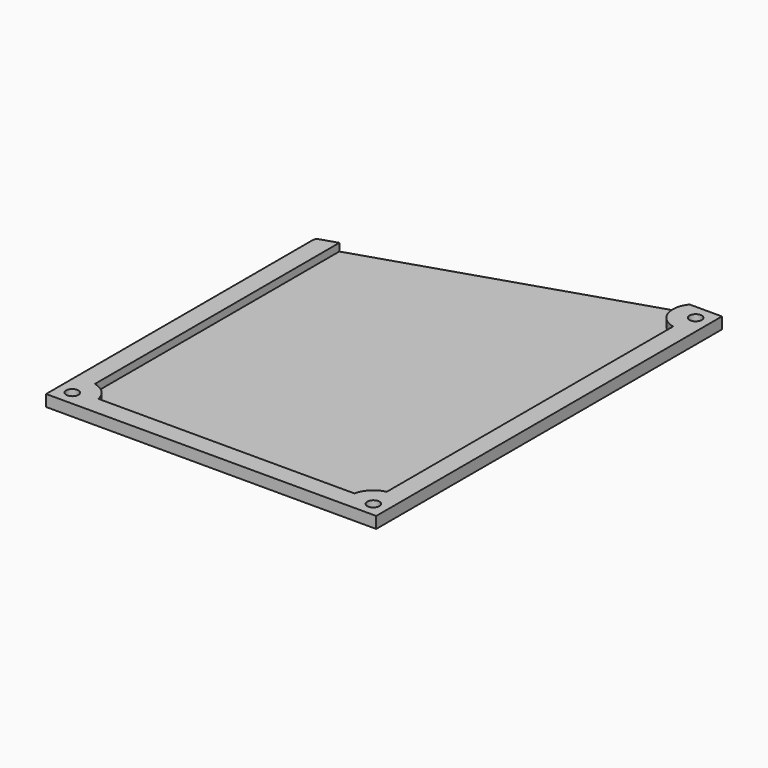
from build123d import *

# Parameters (mm, degrees)
SKETCH_W           = 86.36
SKETCH_H           = 113.03
PAD_DEPTH          = 10
SKETCH001_R        = 1.6
POCKET_DEPTH       = 1
POCKET001_DEPTH    = 9
POCKET002_DEPTH    = 10.001
FILLET_R           = 1
FILLET_FACE20_R    = 1.6
POCKET003_DEPTH    = 9.001
POCKET003_FACE20_R = 1.6
POCKET004_DEPTH    = 9.001
POCKET004_FACE21_R = 1.6
POCKET005_DEPTH    = 9.001
POCKET005_FACE11_R = 1.6
POCKET006_DEPTH    = 7


with BuildPart() as part:
    # Sketch → Pad (new body)
    with BuildSketch(Plane.XY):
        Rectangle(SKETCH_W, SKETCH_H)
    extrude(amount=PAD_DEPTH)

    # Sketch001 (on Face6 of Pad) → Pocket (cut)
    with BuildSketch(Plane.XY.offset(10)):
        with Locations((-39.37, -52.705)):
            Circle(SKETCH001_R)
        with Locations((39.37, -52.705)):
            Circle(SKETCH001_R)
        with Locations((39.37, 52.705)):
            Circle(SKETCH001_R)
    extrude(amount=-POCKET_DEPTH, mode=Mode.SUBTRACT)

    # Sketch002 (on Face5 of Pocket) → Pocket001 (cut)
    with BuildSketch(Plane.XY.offset(10)):
        with BuildLine():
            Line((-38.18, 56.515), (34.734927, 56.515))
            ThreePointArc((34.734927, 56.515), (33.716611, 50.695226), (38.18, 46.824192))
            Line((38.18, -46.824192), (38.18, 46.824192))
            ThreePointArc((38.18, -46.824192), (35.127359, -48.462359), (33.489192, -51.515))
            Line((-33.489192, -51.515), (33.489192, -51.515))
            ThreePointArc((-33.489192, -51.515), (-35.127359, -48.462359), (-38.18, -46.824192))
            Line((-38.18, -46.824192), (-38.18, 56.515))
        make_face()
    extrude(amount=-POCKET001_DEPTH, mode=Mode.SUBTRACT)

    # Sketch003 (on Face2 of Pocket001) → Pocket002 (cut, through all)
    with BuildSketch(Plane(origin=(0, 0, 0), x_dir=(1, 0, 0), z_dir=(0, 0, -1))):
        Polygon((34.734927, -56.515), (-43.18, -31.515), (-75.693622, -36.778853), (-62.654191, -136.900963), (71.529642, -145.781613), align=None)
    extrude(amount=-POCKET002_DEPTH, mode=Mode.SUBTRACT)

    # Fillet
    fillet_edges = [part.edges().sort_by_distance(p)[0] for p in [
        (-43.18, 31.515, 5),
    ]]
    fillet(fillet_edges, radius=FILLET_R)

    # Fillet Face20 → Pocket003 (cut, through all)
    with BuildSketch(Plane(origin=(39.37, 52.705, 9), x_dir=(0, 1, 0), z_dir=(0, 0, 1))):
        Circle(FILLET_FACE20_R)
    extrude(amount=-POCKET003_DEPTH, mode=Mode.SUBTRACT)

    # Pocket003 Face20 → Pocket004 (cut, through all)
    with BuildSketch(Plane(origin=(39.37, -52.705, 9), x_dir=(0, 1, 0), z_dir=(0, 0, 1))):
        Circle(POCKET003_FACE20_R)
    extrude(amount=-POCKET004_DEPTH, mode=Mode.SUBTRACT)

    # Pocket004 Face21 → Pocket005 (cut, through all)
    with BuildSketch(Plane(origin=(-39.37, -52.705, 9), x_dir=(0, 1, 0), z_dir=(0, 0, 1))):
        Circle(POCKET004_FACE21_R)
    extrude(amount=-POCKET005_DEPTH, mode=Mode.SUBTRACT)

    # Pocket005 Face11 → Pocket006 (cut)
    with BuildSketch(Plane(origin=(4.164338, -17.509982, 10), x_dir=(0, 1, 0), z_dir=(0, 0, 1))):
        with BuildLine():
            Line((50.629296, 42.344338), (49.247815, 46.649859))
            ThreePointArc((49.247815, 46.649859), (48.8849, 47.152274), (48.295629, 47.344338))
            Line((48.295629, 47.344338), (-39.005018, 47.344338))
            Line((-39.005018, 47.344338), (-39.005018, -39.015662))
            Line((-39.005018, -39.015662), (74.024982, -39.015662))
            Line((74.024982, -39.015662), (74.024982, -30.570589))
            ThreePointArc((74.024982, -30.570589), (68.205208, -29.552273), (64.334174, -34.015662))
            Line((64.334174, -34.015662), (-29.31421, -34.015662))
            ThreePointArc((-29.31421, -34.015662), (-30.952377, -30.963021), (-34.005018, -29.324854))
            Line((-34.005018, -29.324854), (-34.005018, 37.65353))
            ThreePointArc((-34.005018, 37.65353), (-30.952377, 39.291697), (-29.31421, 42.344338))
            Line((-29.31421, 42.344338), (50.629296, 42.344338))
        make_face()
        with Locations((-35.195018, -35.205662)):
            Circle(POCKET005_FACE11_R, mode=Mode.SUBTRACT)
        with Locations((70.214982, -35.205662)):
            Circle(POCKET005_FACE11_R, mode=Mode.SUBTRACT)
        with Locations((-35.195018, 43.534338)):
            Circle(POCKET005_FACE11_R, mode=Mode.SUBTRACT)
    extrude(amount=-POCKET006_DEPTH, mode=Mode.SUBTRACT)


solid = part.part
